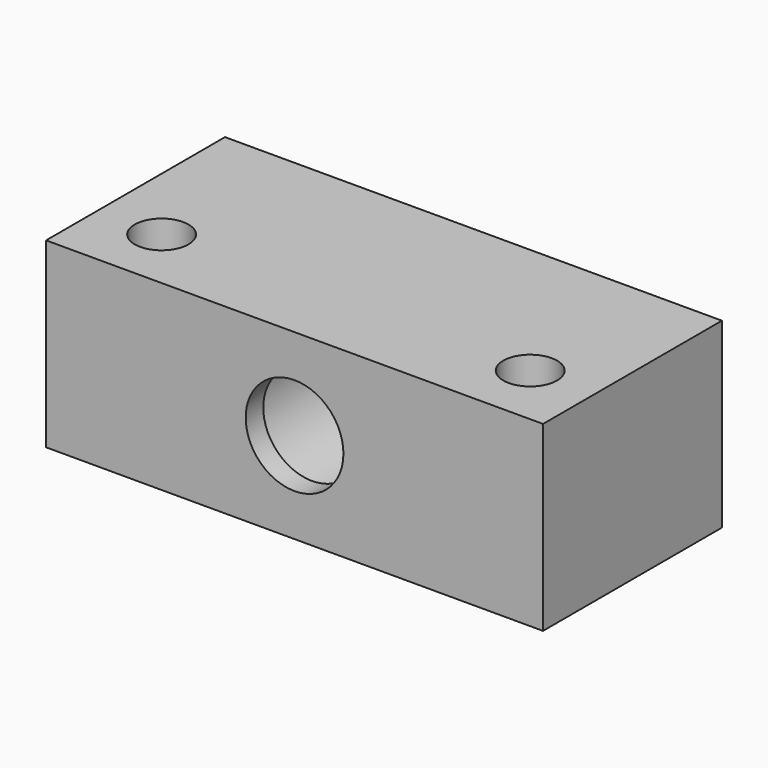
from build123d import *

# Parameters (mm, degrees)
F0_W     = 60
F0_H     = 22
F0_R     = 2.125
F0_R_2   = 8.225
F1_DEPTH = 27
F2_DEPTH = 21
F3_R     = 3.25
F4_DEPTH = 22.001
F5_DEPTH = 24.35
F6_R     = 5.9
F7_DEPTH = 27.001


with BuildPart() as f1:
    # F0 (on Front) → F1 (new body)
    with BuildSketch(Plane.XZ):
        Rectangle(F0_W, F0_H)
        with Locations((-12.6, 0)):
            Circle(F0_R, mode=Mode.SUBTRACT)
        Circle(F0_R_2, mode=Mode.SUBTRACT)
        with Locations((12.6, 0)):
            Circle(F0_R, mode=Mode.SUBTRACT)
        Circle(F0_R_2)
        with Locations((-12.6, 0)):
            Circle(F0_R)
        with Locations((12.6, 0)):
            Circle(F0_R)
    extrude(amount=F1_DEPTH)

    # F0 (on Front) → F2 (cut)
    with BuildSketch(Plane.XZ):
        with Locations((12.6, 0)):
            Circle(F0_R)
        with Locations((-12.6, 0)):
            Circle(F0_R)
    extrude(amount=F2_DEPTH, mode=Mode.SUBTRACT)

    # F3 (on face) → F4 (cut, through all)
    with BuildSketch(Plane.XY.offset(11)):
        with Locations((22.25, -19.25)):
            Circle(F3_R)
        with Locations((-22.25, -19.25)):
            Circle(F3_R)
    extrude(amount=-F4_DEPTH, mode=Mode.SUBTRACT)

    # F0 (on Front) → F5 (cut)
    with BuildSketch(Plane.XZ):
        Circle(F0_R_2)
    extrude(amount=F5_DEPTH, mode=Mode.SUBTRACT)

    # F6 (on face) → F7 (cut, through all)
    with BuildSketch(Plane.XZ.offset(27)):
        Circle(F6_R)
    extrude(amount=-F7_DEPTH, mode=Mode.SUBTRACT)


solid = f1.part
